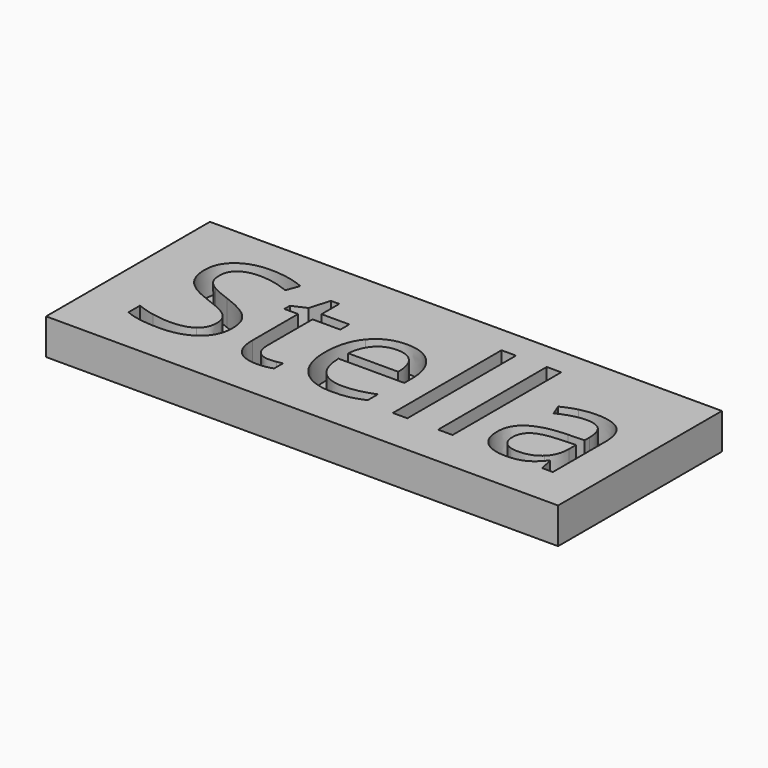
from build123d import *

# Parameters (mm, degrees)
F0_W     = 127
F0_H     = 50.8
F0_W_2   = 3.595132144
F0_H_2   = 33.6861803786
F1_DEPTH = 6.35
F2_W     = 127
F2_H     = 50.8
F3_DEPTH = 2.54


with BuildPart() as f1:
    # F0 (on Top) → F1 (new body)
    with BuildSketch(Plane.XY):
        with Locations((-9.3244742602, -6.2771728632)):
            Rectangle(F0_W, F0_H)
        with BuildLine():
            add(Edge.make_bspline(
                [(-30.7193292939, -17.6729927258), (-29.7010548716, -18.8194173305), (-27.9277334287, -18.8194173305)],
                knots=[0, 0, 0, 1, 1, 1], degree=2))
            add(Edge.make_bspline(
                [(-27.9277334287, -18.8194173305), (-26.9718023384, -18.8194173305), (-26.0851416169, -18.6808765928)],
                knots=[0, 0, 0, 1, 1, 1], degree=2))
            add(Edge.make_bspline(
                [(-26.0851416169, -18.6808765928), (-25.1984808955, -18.542335855), (-24.678953129, -18.3899410435)],
                knots=[0, 0, 0, 1, 1, 1], degree=2))
            Line((-24.678953129, -18.3899410435), (-24.678953129, -21.1399746874))
            add(Edge.make_bspline(
                [(-24.678953129, -21.1399746874), (-25.2608242274, -21.4170561629), (-26.3968582768, -21.6040861588)],
                knots=[0, 0, 0, 1, 1, 1], degree=2))
            add(Edge.make_bspline(
                [(-26.3968582768, -21.6040861588), (-27.5328923262, -21.7911161548), (-28.4472611952, -21.7911161548)],
                knots=[0, 0, 0, 1, 1, 1], degree=2))
            add(Edge.make_bspline(
                [(-28.4472611952, -21.7911161548), (-35.3258088234, -21.7911161548), (-35.3258088234, -14.5385085347)],
                knots=[0, 0, 0, 1, 1, 1], degree=2))
            Line((-35.3258088234, -14.5385085347), (-35.3258088234, -0.4212073602))
            Line((-35.3258088234, -0.4212073602), (-38.7269839346, -0.4212073602))
            Line((-38.7269839346, -0.4212073602), (-38.7269839346, 1.3105518614))
            Line((-38.7269839346, 1.3105518614), (-35.3258088234, 2.8067918289))
            Line((-35.3258088234, 2.8067918289), (-33.8157147822, 7.8704557928))
            Line((-33.8157147822, 7.8704557928), (-31.7376037162, 7.8704557928))
            Line((-31.7376037162, 7.8704557928), (-31.7376037162, 2.370388505))
            Line((-31.7376037162, 2.370388505), (-24.8521290511, 2.370388505))
            Line((-24.8521290511, 2.370388505), (-24.8521290511, -0.4212073602))
            Line((-24.8521290511, -0.4212073602), (-31.7376037162, -0.4212073602))
            Line((-31.7376037162, -0.4212073602), (-31.7376037162, -14.3861137232))
            add(Edge.make_bspline(
                [(-31.7376037162, -14.3861137232), (-31.7376037162, -16.5265681211), (-30.7193292939, -17.6729927258)],
                knots=[0, 0, 0, 1, 1, 1], degree=2))
        make_face(mode=Mode.SUBTRACT)
        with BuildLine():
            add(Edge.make_bspline(
                [(-5.8166316873, -21.4309102367), (-7.5137557245, -21.7911161548), (-9.9174375241, -21.7911161548)],
                knots=[0, 0, 0, 1, 1, 1], degree=2))
            add(Edge.make_bspline(
                [(-9.9174375241, -21.7911161548), (-15.1750585208, -21.7911161548), (-18.2194912324, -18.5838980764)],
                knots=[0, 0, 0, 1, 1, 1], degree=2))
            add(Edge.make_bspline(
                [(-18.2194912324, -18.5838980764), (-21.263923944, -15.3766799979), (-21.263923944, -9.6895827142)],
                knots=[0, 0, 0, 1, 1, 1], degree=2))
            add(Edge.make_bspline(
                [(-21.263923944, -9.6895827142), (-21.263923944, -3.9470691354), (-18.4376928943, -0.5701386533)],
                knots=[0, 0, 0, 1, 1, 1], degree=2))
            add(Edge.make_bspline(
                [(-18.4376928943, -0.5701386533), (-15.6114618447, 2.8067918289), (-10.8456604668, 2.8067918289)],
                knots=[0, 0, 0, 1, 1, 1], degree=2))
            add(Edge.make_bspline(
                [(-10.8456604668, 2.8067918289), (-6.3915757489, 2.8067918289), (-3.7939369165, -0.1268082925)],
                knots=[0, 0, 0, 1, 1, 1], degree=2))
            add(Edge.make_bspline(
                [(-3.7939369165, -0.1268082925), (-1.1962980841, -3.0604084139), (-1.1962980841, -7.8677720131)],
                knots=[0, 0, 0, 1, 1, 1], degree=2))
            Line((-1.1962980841, -7.8677720131), (-1.1962980841, -10.1398401118))
            Line((-1.1962980841, -10.1398401118), (-17.5371780991, -10.1398401118))
            add(Edge.make_bspline(
                [(-17.5371780991, -10.1398401118), (-17.4263455089, -14.3168433543), (-15.4244318487, -16.4815423813)],
                knots=[0, 0, 0, 1, 1, 1], degree=2))
            add(Edge.make_bspline(
                [(-15.4244318487, -16.4815423813), (-13.4225181886, -18.6462414083), (-9.7858238232, -18.6462414083)],
                knots=[0, 0, 0, 1, 1, 1], degree=2))
            add(Edge.make_bspline(
                [(-9.7858238232, -18.6462414083), (-5.955172425, -18.6462414083), (-2.2145725064, -17.0460958876)],
                knots=[0, 0, 0, 1, 1, 1], degree=2))
            Line((-2.2145725064, -17.0460958876), (-2.2145725064, -20.253313966))
            add(Edge.make_bspline(
                [(-2.2145725064, -20.253313966), (-4.1195076501, -21.0707043186), (-5.8166316873, -21.4309102367)],
                knots=[0, 0, 0, 1, 1, 1], degree=2))
        make_face(mode=Mode.SUBTRACT)
        with BuildLine():
            Line((44.6191238826, -21.3547128309), (41.9522146814, -21.3547128309))
            Line((41.9522146814, -21.3547128309), (41.2387298821, -17.9743188304))
            Line((41.2387298821, -17.9743188304), (41.0655539599, -17.9743188304))
            add(Edge.make_bspline(
                [(41.0655539599, -17.9743188304), (39.292232517, -20.2048247078), (37.5293016294, -20.9979704313)],
                knots=[0, 0, 0, 1, 1, 1], degree=2))
            add(Edge.make_bspline(
                [(37.5293016294, -20.9979704313), (35.7663707418, -21.7911161548), (33.1202426512, -21.7911161548)],
                knots=[0, 0, 0, 1, 1, 1], degree=2))
            add(Edge.make_bspline(
                [(33.1202426512, -21.7911161548), (29.594380876, -21.7911161548), (27.5924672158, -19.9693054536)],
                knots=[0, 0, 0, 1, 1, 1], degree=2))
            add(Edge.make_bspline(
                [(27.5924672158, -19.9693054536), (25.5905535557, -18.1474947525), (25.5905535557, -14.7948088995)],
                knots=[0, 0, 0, 1, 1, 1], degree=2))
            add(Edge.make_bspline(
                [(25.5905535557, -14.7948088995), (25.5905535557, -7.6114716483), (37.0825077502, -7.265119804)],
                knots=[0, 0, 0, 1, 1, 1], degree=2))
            Line((37.0825077502, -7.265119804), (41.1071161812, -7.1335061031))
            Line((41.1071161812, -7.1335061031), (41.1071161812, -5.6580472463))
            add(Edge.make_bspline(
                [(41.1071161812, -5.6580472463), (41.1071161812, -2.8664513811), (39.9087387999, -1.5364602989)],
                knots=[0, 0, 0, 1, 1, 1], degree=2))
            add(Edge.make_bspline(
                [(39.9087387999, -1.5364602989), (38.7103614185, -0.2064692167), (36.0642333279, -0.2064692167)],
                knots=[0, 0, 0, 1, 1, 1], degree=2))
            add(Edge.make_bspline(
                [(36.0642333279, -0.2064692167), (33.0994615405, -0.2064692167), (29.3588616219, -2.021352881)],
                knots=[0, 0, 0, 1, 1, 1], degree=2))
            Line((29.3588616219, -2.021352881), (28.2505357201, 0.7286807629))
            add(Edge.make_bspline(
                [(28.2505357201, 0.7286807629), (30.0030760523, 1.6776848164), (32.0915776736, 2.2179936935)],
                knots=[0, 0, 0, 1, 1, 1], degree=2))
            add(Edge.make_bspline(
                [(32.0915776736, 2.2179936935), (34.1800792948, 2.7583025707), (36.2858985083, 2.7583025707)],
                knots=[0, 0, 0, 1, 1, 1], degree=2))
            add(Edge.make_bspline(
                [(36.2858985083, 2.7583025707), (40.5252450828, 2.7583025707), (42.5721844827, 0.877612056)],
                knots=[0, 0, 0, 1, 1, 1], degree=2))
            add(Edge.make_bspline(
                [(42.5721844827, 0.877612056), (44.6191238826, -1.0030784587), (44.6191238826, -5.1593005905)],
                knots=[0, 0, 0, 1, 1, 1], degree=2))
            Line((44.6191238826, -5.1593005905), (44.6191238826, -21.3547128309))
        make_face(mode=Mode.SUBTRACT)
        with BuildLine():
            add(Edge.make_bspline(
                [(-43.3958067961, -7.6530338696), (-41.5255068367, -9.6895827142), (-41.5255068367, -12.931435977)],
                knots=[0, 0, 0, 1, 1, 1], degree=2))
            add(Edge.make_bspline(
                [(-41.5255068367, -12.931435977), (-41.5255068367, -17.1084392196), (-44.5560854745, -19.4497776872)],
                knots=[0, 0, 0, 1, 1, 1], degree=2))
            add(Edge.make_bspline(
                [(-44.5560854745, -19.4497776872), (-47.5866641123, -21.7911161548), (-52.7819417771, -21.7911161548)],
                knots=[0, 0, 0, 1, 1, 1], degree=2))
            add(Edge.make_bspline(
                [(-52.7819417771, -21.7911161548), (-58.4066957289, -21.7911161548), (-61.4407378851, -20.3364384086)],
                knots=[0, 0, 0, 1, 1, 1], degree=2))
            Line((-61.4407378851, -20.3364384086), (-61.4407378851, -16.7897955228))
            add(Edge.make_bspline(
                [(-61.4407378851, -16.7897955228), (-59.4873134832, -17.6071858754), (-57.1944642738, -18.0851514205)],
                knots=[0, 0, 0, 1, 1, 1], degree=2))
            add(Edge.make_bspline(
                [(-57.1944642738, -18.0851514205), (-54.9016150644, -18.5631169657), (-52.6503280763, -18.5631169657)],
                knots=[0, 0, 0, 1, 1, 1], degree=2))
            add(Edge.make_bspline(
                [(-52.6503280763, -18.5631169657), (-48.9720714896, -18.5631169657), (-47.1086985672, -17.1673190331)],
                knots=[0, 0, 0, 1, 1, 1], degree=2))
            add(Edge.make_bspline(
                [(-47.1086985672, -17.1673190331), (-45.2453256447, -15.7715211005), (-45.2453256447, -13.2777878214)],
                knots=[0, 0, 0, 1, 1, 1], degree=2))
            add(Edge.make_bspline(
                [(-45.2453256447, -13.2777878214), (-45.2453256447, -11.6360800793), (-45.9068576674, -10.586633991)],
                knots=[0, 0, 0, 1, 1, 1], degree=2))
            add(Edge.make_bspline(
                [(-45.9068576674, -10.586633991), (-46.56838969, -9.5371879027), (-48.1165824341, -8.6470636628)],
                knots=[0, 0, 0, 1, 1, 1], degree=2))
            add(Edge.make_bspline(
                [(-48.1165824341, -8.6470636628), (-49.6647751783, -7.7569394229), (-52.8235039985, -6.6347594473)],
                knots=[0, 0, 0, 1, 1, 1], degree=2))
            add(Edge.make_bspline(
                [(-52.8235039985, -6.6347594473), (-57.2360264951, -5.0553950372), (-59.1305710835, -2.8906960102)],
                knots=[0, 0, 0, 1, 1, 1], degree=2))
            add(Edge.make_bspline(
                [(-59.1305710835, -2.8906960102), (-61.025115672, -0.7259969832), (-61.025115672, 2.7583025707)],
                knots=[0, 0, 0, 1, 1, 1], degree=2))
            add(Edge.make_bspline(
                [(-61.025115672, 2.7583025707), (-61.025115672, 6.4157780467), (-58.2785455465, 8.5804770737)],
                knots=[0, 0, 0, 1, 1, 1], degree=2))
            add(Edge.make_bspline(
                [(-58.2785455465, 8.5804770737), (-55.531975421, 10.7451761007), (-51.0016932973, 10.7451761007)],
                knots=[0, 0, 0, 1, 1, 1], degree=2))
            add(Edge.make_bspline(
                [(-51.0016932973, 10.7451761007), (-46.2843811777, 10.7451761007), (-42.3221160787, 9.0134168791)],
                knots=[0, 0, 0, 1, 1, 1], degree=2))
            Line((-42.3221160787, 9.0134168791), (-43.4720042018, 5.8131258376))
            add(Edge.make_bspline(
                [(-43.4720042018, 5.8131258376), (-47.3927070795, 7.4548335796), (-51.0917447769, 7.4548335796)],
                knots=[0, 0, 0, 1, 1, 1], degree=2))
            add(Edge.make_bspline(
                [(-51.0917447769, 7.4548335796), (-54.0149543429, 7.4548335796), (-55.6601256034, 6.2010399032)],
                knots=[0, 0, 0, 1, 1, 1], degree=2))
            add(Edge.make_bspline(
                [(-55.6601256034, 6.2010399032), (-57.305296864, 4.9472462268), (-57.305296864, 2.7167403493)],
                knots=[0, 0, 0, 1, 1, 1], degree=2))
            add(Edge.make_bspline(
                [(-57.305296864, 2.7167403493), (-57.305296864, 1.0750326073), (-56.6991811364, 0.0221230005)],
                knots=[0, 0, 0, 1, 1, 1], degree=2))
            add(Edge.make_bspline(
                [(-56.6991811364, 0.0221230005), (-56.0930654088, -1.0307866062), (-54.6522417365, -1.9070567723)],
                knots=[0, 0, 0, 1, 1, 1], degree=2))
            add(Edge.make_bspline(
                [(-54.6522417365, -1.9070567723), (-53.2114180641, -2.7833269385), (-50.2466462767, -3.8431635821)],
                knots=[0, 0, 0, 1, 1, 1], degree=2))
            add(Edge.make_bspline(
                [(-50.2466462767, -3.8431635821), (-45.2661067554, -5.616485025), (-43.3958067961, -7.6530338696)],
                knots=[0, 0, 0, 1, 1, 1], degree=2))
        make_face(mode=Mode.SUBTRACT)
        with Locations((6.7316956324, -4.5116226416)):
            Rectangle(F0_W_2, F0_H_2, mode=Mode.SUBTRACT)
        with Locations((17.9465683515, -4.5116226416)):
            Rectangle(F0_W_2, F0_H_2, mode=Mode.SUBTRACT)
    extrude(amount=F1_DEPTH)



with BuildPart() as f1b:
    # F0 (on Top) → F1, piece 2 (new body)
    with BuildSketch(Plane.XY):
        with BuildLine():
            add(Edge.make_bspline(
                [(-6.5612881526, -2.0144258441), (-8.0748457123, -0.2064692167), (-10.894149725, -0.2064692167)],
                knots=[0, 0, 0, 1, 1, 1], degree=2))
            add(Edge.make_bspline(
                [(-10.894149725, -0.2064692167), (-13.7480889222, -0.2064692167), (-15.4486764778, -2.0663786207)],
                knots=[0, 0, 0, 1, 1, 1], degree=2))
            add(Edge.make_bspline(
                [(-15.4486764778, -2.0663786207), (-17.1492640335, -3.9262880247), (-17.4540536565, -7.2166305458)],
                knots=[0, 0, 0, 1, 1, 1], degree=2))
            Line((-17.4540536565, -7.2166305458), (-5.0477305929, -7.2166305458))
            add(Edge.make_bspline(
                [(-5.0477305929, -7.2166305458), (-5.0477305929, -3.8223824714), (-6.5612881526, -2.0144258441)],
                knots=[0, 0, 0, 1, 1, 1], degree=2))
        make_face()
    extrude(amount=F1_DEPTH)


with BuildPart() as f1c:
    # F0 (on Top) → F1, piece 3 (new body)
    with BuildSketch(Plane.XY):
        with BuildLine():
            add(Edge.make_bspline(
                [(30.5364578926, -17.8046064266), (31.7140541633, -18.8194173305), (33.8337274505, -18.8194173305)],
                knots=[0, 0, 0, 1, 1, 1], degree=2))
            add(Edge.make_bspline(
                [(33.8337274505, -18.8194173305), (37.1933403404, -18.8194173305), (39.1086660395, -16.9802890372)],
                knots=[0, 0, 0, 1, 1, 1], degree=2))
            add(Edge.make_bspline(
                [(39.1086660395, -16.9802890372), (41.0239917386, -15.1411607438), (41.0239917386, -11.8300371121)],
                knots=[0, 0, 0, 1, 1, 1], degree=2))
            Line((41.0239917386, -11.8300371121), (41.0239917386, -9.6895827142))
            Line((41.0239917386, -9.6895827142), (37.4288595945, -9.8350504888))
            add(Edge.make_bspline(
                [(37.4288595945, -9.8350504888), (33.1410237619, -9.9874453003), (31.2499426919, -11.1685050895)],
                knots=[0, 0, 0, 1, 1, 1], degree=2))
            add(Edge.make_bspline(
                [(31.2499426919, -11.1685050895), (29.3588616219, -12.3495648786), (29.3588616219, -14.8363711208)],
                knots=[0, 0, 0, 1, 1, 1], degree=2))
            add(Edge.make_bspline(
                [(29.3588616219, -14.8363711208), (29.3588616219, -16.7897955228), (30.5364578926, -17.8046064266)],
                knots=[0, 0, 0, 1, 1, 1], degree=2))
        make_face()
    extrude(amount=F1_DEPTH)


with BuildPart() as f1_1:
    add(f1.part)

    add(f1b.part)  # F3 merges F1b

    add(f1c.part)  # F3 merges F1c
    # F2 (on face) → F3 (join)
    with BuildSketch(Plane(origin=(0, 0, 0), x_dir=(1, 0, 0), z_dir=(0, 0, -1))):
        with Locations((-9.3244742602, 6.2771728632)):
            Rectangle(F2_W, F2_H)
    extrude(amount=F3_DEPTH)


solid = f1_1.part
